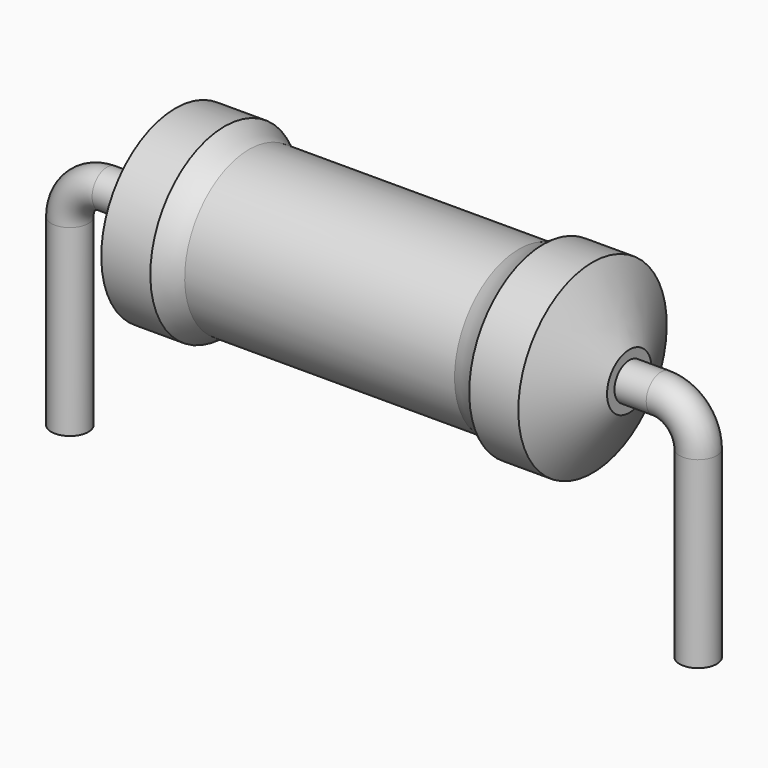
from build123d import *

# Parameters (mm, degrees)
SKETCH_R = 0.45


with BuildPart() as revolution:
    # Sketch002 → Revolution (revolve)
    with BuildSketch(Plane.XZ):
        with BuildLine():
            Line((2.5625, 4.6), (3.7525, 4.6))
            ThreePointArc((3.7525, 4.6), (4.037689, 4.426628), (4.3475, 4.3025))
            Line((4.3475, 4.3025), (10.8925, 4.3025))
            ThreePointArc((10.8925, 4.3025), (11.202311, 4.426628), (11.4875, 4.6))
            Line((11.4875, 4.6), (12.6775, 4.6))
            ThreePointArc((13.57, 3.025), (13.125866, 3.813699), (12.6775, 4.6))
            Line((13.57, 2.35), (13.57, 3.025))
            Line((1.67, 2.35), (13.57, 2.35))
            Line((1.67, 2.35), (1.67, 3.025))
            ThreePointArc((2.5625, 4.6), (2.114134, 3.813699), (1.67, 3.025))
        make_face()
    revolve(axis=Axis((1.67, 0, 2.35), (1, 0, 0)))


with BuildPart() as sweep_body:
    # Sweep: sweep along a path in Sketch001
    with BuildLine(Plane.XZ) as sweep_path:
        Line((0, -3), (0, 1.45))
        ThreePointArc((0, 1.45), (0.263601, 2.086393), (0.899992, 2.35))
        Line((0.899992, 2.35), (14.34, 2.35))
        ThreePointArc((14.34, 2.35), (14.976396, 2.086396), (15.24, 1.45))
        Line((15.24, 1.45), (15.24, -3))
    # Sketch → Sweep (sweep)
    with BuildSketch(Plane.XY.offset(-2)):
        Circle(SKETCH_R)
    sweep(path=sweep_path.line)


solid = Compound([revolution.part, sweep_body.part])
